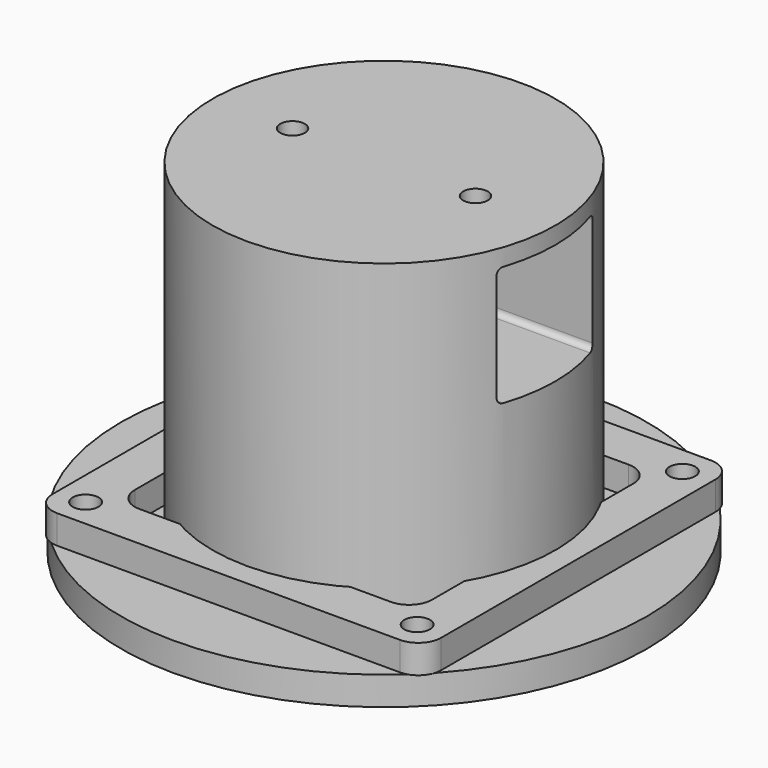
from build123d import *

# Parameters (mm, degrees)
SKETCH001_R          = 46
PAD_DEPTH            = 5
SKETCH_R             = 2
POCKET_DEPTH         = 5.001
SKETCH003_R          = 30
PAD002_DEPTH         = 55
SKETCH011_W          = 21
SKETCH011_H          = 21
POCKET004_DEPTH      = 46.001
POCKET004_DEPTH_BACK = -46.001
SKETCH012_R          = 25
POCKET005_DEPTH      = 32
SKETCH013_R          = 2.15
POCKET006_DEPTH      = 60.001
FILLET008_R          = 1
FILLET009_R          = 1
FILLET010_R          = 1
FILLET011_R          = 1
BODY_PLACEMENT_ANGLE = 90
SKETCH007_R          = 5
PAD004_DEPTH         = 16
SKETCH008_R          = 2
POCKET002_DEPTH      = 16.001
SKETCH009_W          = 68
SKETCH009_H          = 68
SKETCH009_R          = 2.25
PAD005_DEPTH         = 5
SKETCH010_W          = 52
SKETCH010_H          = 52
POCKET003_DEPTH      = 5.001
FILLET_R             = 4
FILLET001_R          = 4
FILLET002_R          = 4
FILLET003_R          = 4
FILLET004_R          = 4
FILLET005_R          = 4
FILLET006_R          = 4
FILLET007_R          = 4


with BuildPart() as body:
    # Sketch001 → Pad (new body)
    with BuildSketch(Plane.XY):
        Circle(SKETCH001_R)
    extrude(amount=-PAD_DEPTH)

    # Sketch → Pocket (cut, through all)
    with BuildSketch(Plane.XY):
        with Locations((-29, 29)):
            Circle(SKETCH_R)
        with Locations((29, 29)):
            Circle(SKETCH_R)
        with Locations((-29, -29)):
            Circle(SKETCH_R)
        with Locations((29, -29)):
            Circle(SKETCH_R)
    extrude(amount=-POCKET_DEPTH, mode=Mode.SUBTRACT)

    # Sketch003 → Pad002 (join)
    with BuildSketch(Plane.XY):
        Circle(SKETCH003_R)
    extrude(amount=PAD002_DEPTH)

    # Sketch011 → Pocket004 (cut, two sides)
    with BuildSketch(Plane.XZ) as pocket004_sk:
        with Locations((0, 41.5)):
            Rectangle(SKETCH011_W, SKETCH011_H)
    extrude(amount=-POCKET004_DEPTH, mode=Mode.SUBTRACT)
    extrude(pocket004_sk.sketch, amount=-POCKET004_DEPTH_BACK, mode=Mode.SUBTRACT)

    # Sketch012 (on Face3 of Pocket004) → Pocket005 (cut)
    with BuildSketch(Plane(origin=(0, 0, -5), x_dir=(1, 0, 0), z_dir=(0, 0, -1))):
        Circle(SKETCH012_R)
    extrude(amount=-POCKET005_DEPTH, mode=Mode.SUBTRACT)

    # Sketch013 (on Face10 of Pocket005) → Pocket006 (cut, through all)
    with BuildSketch(Plane.XY.offset(55)):
        with Locations((0, -16)):
            Circle(SKETCH013_R)
        with Locations((0, 16)):
            Circle(SKETCH013_R)
    extrude(amount=-POCKET006_DEPTH, mode=Mode.SUBTRACT)

    # Fillet008
    fillet008_edges = [body.edges().sort_by_distance(p)[0] for p in [
        (-10.5, 0, 31),
    ]]
    fillet(fillet008_edges, radius=FILLET008_R)

    # Fillet009
    fillet009_edges = [body.edges().sort_by_distance(p)[0] for p in [
        (-10.5, 0, 52),
    ]]
    fillet(fillet009_edges, radius=FILLET009_R)

    # Fillet010
    fillet010_edges = [body.edges().sort_by_distance(p)[0] for p in [
        (10.5, 0, 31),
    ]]
    fillet(fillet010_edges, radius=FILLET010_R)

    # Fillet011
    fillet011_edges = [body.edges().sort_by_distance(p)[0] for p in [
        (10.5, 0, 52),
    ]]
    fillet(fillet011_edges, radius=FILLET011_R)


with BuildPart() as body_1:
    # Body placement: moved
    add(body.part.rotate(Axis((0, 0, 0), (0, 0, -1)), BODY_PLACEMENT_ANGLE))


with BuildPart() as bodysupport:
    # Sketch007 → Pad004 (new body)
    with BuildSketch(Plane.XY):
        Circle(SKETCH007_R)
    extrude(amount=PAD004_DEPTH)

    # Sketch008 (on Face3 of Pad004) → Pocket002 (cut, through all)
    with BuildSketch(Plane.XY.offset(16)):
        Circle(SKETCH008_R)
    extrude(amount=-POCKET002_DEPTH, mode=Mode.SUBTRACT)


with BuildPart() as bodydrill:
    # Sketch009 → Pad005 (new body)
    with BuildSketch(Plane.XY):
        Rectangle(SKETCH009_W, SKETCH009_H)
        with Locations((-29, 29)):
            Circle(SKETCH009_R, mode=Mode.SUBTRACT)
        with Locations((29, 29)):
            Circle(SKETCH009_R, mode=Mode.SUBTRACT)
        with Locations((-29, -29)):
            Circle(SKETCH009_R, mode=Mode.SUBTRACT)
        with Locations((29, -29)):
            Circle(SKETCH009_R, mode=Mode.SUBTRACT)
    extrude(amount=PAD005_DEPTH)

    # Sketch010 (on Face9 of Pad005) → Pocket003 (cut, through all)
    with BuildSketch(Plane(origin=(0, 0, 0), x_dir=(1, 0, 0), z_dir=(0, 0, -1))):
        Rectangle(SKETCH010_W, SKETCH010_H)
    extrude(amount=-POCKET003_DEPTH, mode=Mode.SUBTRACT)

    # Fillet
    fillet_edges = [bodydrill.edges().sort_by_distance(p)[0] for p in [
        (-34, -34, 2.5),
    ]]
    fillet(fillet_edges, radius=FILLET_R)

    # Fillet001
    fillet001_edges = [bodydrill.edges().sort_by_distance(p)[0] for p in [
        (34, -34, 2.5),
    ]]
    fillet(fillet001_edges, radius=FILLET001_R)

    # Fillet002
    fillet002_edges = [bodydrill.edges().sort_by_distance(p)[0] for p in [
        (-34, 34, 2.5),
    ]]
    fillet(fillet002_edges, radius=FILLET002_R)

    # Fillet003
    fillet003_edges = [bodydrill.edges().sort_by_distance(p)[0] for p in [
        (34, 34, 2.5),
    ]]
    fillet(fillet003_edges, radius=FILLET003_R)

    # Fillet004
    fillet004_edges = [bodydrill.edges().sort_by_distance(p)[0] for p in [
        (-26, -26, 2.5),
    ]]
    fillet(fillet004_edges, radius=FILLET004_R)

    # Fillet005
    fillet005_edges = [bodydrill.edges().sort_by_distance(p)[0] for p in [
        (26, -26, 2.5),
    ]]
    fillet(fillet005_edges, radius=FILLET005_R)

    # Fillet006
    fillet006_edges = [bodydrill.edges().sort_by_distance(p)[0] for p in [
        (-26, 26, 2.5),
    ]]
    fillet(fillet006_edges, radius=FILLET006_R)

    # Fillet007
    fillet007_edges = [bodydrill.edges().sort_by_distance(p)[0] for p in [
        (26, 26, 2.5),
    ]]
    fillet(fillet007_edges, radius=FILLET007_R)


solid = Compound([body_1.part, bodysupport.part, bodydrill.part])
